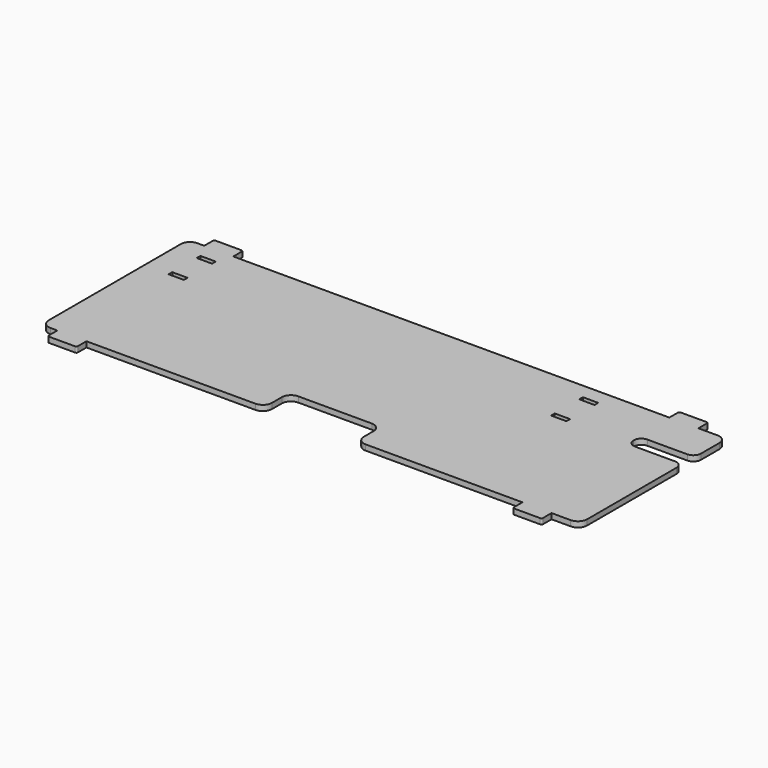
from build123d import *

# Parameters (mm, degrees)
PAD_DEPTH            = 1.8
SKETCH001_W          = 30
SKETCH001_H          = 10
POCKET_DEPTH         = 1.801
POCKET_DEPTH_BACK    = 0.001
FILLET_R             = 3
FILLET001_R          = 0.5
SKETCH002_W          = 5
SKETCH002_H          = 1.5
SKETCH002_W_2        = 50
SKETCH002_H_2        = 5
POCKET001_DEPTH      = 1.801
POCKET001_DEPTH_BACK = 0.001
FILLET002_R          = 2.49


with BuildPart() as part:
    # Sketch → Pad (new body)
    with BuildSketch(Plane.XY):
        Polygon((88, 0), (88, 60), (78.75, 60), (78.75, 64), (69.25, 64), (69.25, 60), (-73.25, 60), (-73.25, 64), (-82.75, 64), (-82.75, 60), (-88, 60), (-88, 0), (-82.75, 0), (-82.75, -4), (-73.25, -4), (-73.25, 0), (69.25, 0), (69.25, -4), (78.75, -4), (78.75, 0), align=None)
    extrude(amount=-PAD_DEPTH)

    # Sketch001 → Pocket (cut, two sides)
    with BuildSketch(Plane.XY) as pocket_sk:
        with Locations((0, 5)):
            Rectangle(SKETCH001_W, SKETCH001_H)
    extrude(amount=-POCKET_DEPTH, mode=Mode.SUBTRACT)
    extrude(pocket_sk.sketch, amount=POCKET_DEPTH_BACK, mode=Mode.SUBTRACT)

    # Fillet
    fillet_edges = [part.edges().sort_by_distance(p)[0] for p in [
        (88, 0, -0.9),
        (88, 60, -0.9),
        (-88, 60, -0.9),
        (-88, 0, -0.9),
        (15, 0, -0.9),
        (15, 10, -0.9),
        (-15, 10, -0.9),
        (-15, 0, -0.9),
    ]]
    fillet(fillet_edges, radius=FILLET_R)

    # Fillet001
    fillet001_edges = [part.edges().sort_by_distance(p)[0] for p in [
        (-82.75, -4, -0.9),
        (-73.25, -4, -0.9),
        (69.25, -4, -0.9),
        (78.75, -4, -0.9),
        (78.75, 64, -0.9),
        (69.25, 64, -0.9),
        (-73.25, 64, -0.9),
        (-82.75, 64, -0.9),
    ]]
    fillet(fillet001_edges, radius=FILLET001_R)

    # Sketch002 → Pocket001 (cut, two sides)
    with BuildSketch(Plane.XY) as pocket001_sk:
        with Locations((47.5, 54.25)):
            Rectangle(SKETCH002_W, SKETCH002_H)
        with Locations((47.5, 42.75)):
            Rectangle(SKETCH002_W, SKETCH002_H)
        with Locations((-77.5, 54.25)):
            Rectangle(SKETCH002_W, SKETCH002_H)
        with Locations((-77.5, 42.75)):
            Rectangle(SKETCH002_W, SKETCH002_H)
        with Locations((95, 44.5)):
            Rectangle(SKETCH002_W_2, SKETCH002_H_2)
    extrude(amount=-POCKET001_DEPTH, mode=Mode.SUBTRACT)
    extrude(pocket001_sk.sketch, amount=POCKET001_DEPTH_BACK, mode=Mode.SUBTRACT)

    # Fillet002
    fillet002_edges = [part.edges().sort_by_distance(p)[0] for p in [
        (70, 42, -0.9),
        (70, 47, -0.9),
        (88, 47, -0.9),
        (88, 42, -0.9),
    ]]
    fillet(fillet002_edges, radius=FILLET002_R)


solid = part.part
